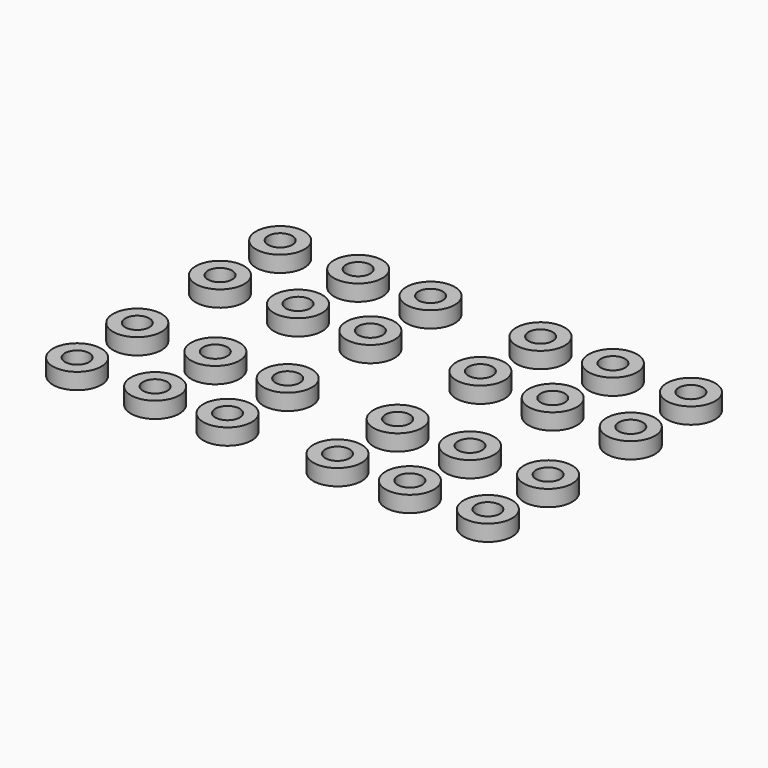
from build123d import *

# Parameters (mm, degrees)
F0_R     = 4.5
F0_R_2   = 2.25
F1_DEPTH = 3


with BuildPart() as f1:
    # F0 (on Top) → F1 (new body)
    with BuildSketch(Plane.XY):
        with Locations((-38.129084, 23.558017)):
            Circle(F0_R)
        with Locations((-38.129084, 23.558017)):
            Circle(F0_R_2, mode=Mode.SUBTRACT)
        with Locations((-23.645267, 23.558017)):
            Circle(F0_R)
        with Locations((-23.645267, 23.558017)):
            Circle(F0_R_2, mode=Mode.SUBTRACT)
        with Locations((-10.208474, 23.558017)):
            Circle(F0_R)
        with Locations((-10.208474, 23.558017)):
            Circle(F0_R_2, mode=Mode.SUBTRACT)
        with Locations((-10.208474, 9.59771)):
            Circle(F0_R)
        with Locations((-10.208474, 9.59771)):
            Circle(F0_R_2, mode=Mode.SUBTRACT)
        with Locations((-23.645267, 9.59771)):
            Circle(F0_R)
        with Locations((-23.645267, 9.59771)):
            Circle(F0_R_2, mode=Mode.SUBTRACT)
        with Locations((-38.129084, 9.59771)):
            Circle(F0_R)
        with Locations((-38.129084, 9.59771)):
            Circle(F0_R_2, mode=Mode.SUBTRACT)
        with Locations((-23.645267, -9.59771)):
            Circle(F0_R)
        with Locations((-23.645267, -9.59771)):
            Circle(F0_R_2, mode=Mode.SUBTRACT)
        with Locations((-38.129084, -9.59771)):
            Circle(F0_R)
        with Locations((-38.129084, -9.59771)):
            Circle(F0_R_2, mode=Mode.SUBTRACT)
        with Locations((-38.129084, -23.558017)):
            Circle(F0_R)
        with Locations((-38.129084, -23.558017)):
            Circle(F0_R_2, mode=Mode.SUBTRACT)
        with Locations((-23.645267, -23.558017)):
            Circle(F0_R)
        with Locations((-23.645267, -23.558017)):
            Circle(F0_R_2, mode=Mode.SUBTRACT)
        with Locations((-10.208474, -23.558017)):
            Circle(F0_R)
        with Locations((-10.208474, -23.558017)):
            Circle(F0_R_2, mode=Mode.SUBTRACT)
        with Locations((-10.208474, -9.59771)):
            Circle(F0_R)
        with Locations((-10.208474, -9.59771)):
            Circle(F0_R_2, mode=Mode.SUBTRACT)
        with Locations((10.208474, 23.558017)):
            Circle(F0_R)
        with Locations((10.208474, 23.558017)):
            Circle(F0_R_2, mode=Mode.SUBTRACT)
        with Locations((10.208474, 9.59771)):
            Circle(F0_R)
        with Locations((10.208474, 9.59771)):
            Circle(F0_R_2, mode=Mode.SUBTRACT)
        with Locations((10.208474, -9.59771)):
            Circle(F0_R)
        with Locations((10.208474, -9.59771)):
            Circle(F0_R_2, mode=Mode.SUBTRACT)
        with Locations((10.208474, -23.558017)):
            Circle(F0_R)
        with Locations((10.208474, -23.558017)):
            Circle(F0_R_2, mode=Mode.SUBTRACT)
        with Locations((23.645267, -9.59771)):
            Circle(F0_R)
        with Locations((23.645267, -9.59771)):
            Circle(F0_R_2, mode=Mode.SUBTRACT)
        with Locations((23.645267, -23.558017)):
            Circle(F0_R)
        with Locations((23.645267, -23.558017)):
            Circle(F0_R_2, mode=Mode.SUBTRACT)
        with Locations((38.129084, -9.59771)):
            Circle(F0_R)
        with Locations((38.129084, -9.59771)):
            Circle(F0_R_2, mode=Mode.SUBTRACT)
        with Locations((38.129084, -23.558017)):
            Circle(F0_R)
        with Locations((38.129084, -23.558017)):
            Circle(F0_R_2, mode=Mode.SUBTRACT)
        with Locations((38.129084, 9.59771)):
            Circle(F0_R)
        with Locations((38.129084, 9.59771)):
            Circle(F0_R_2, mode=Mode.SUBTRACT)
        with Locations((23.645267, 9.59771)):
            Circle(F0_R)
        with Locations((23.645267, 9.59771)):
            Circle(F0_R_2, mode=Mode.SUBTRACT)
        with Locations((23.645267, 23.558017)):
            Circle(F0_R)
        with Locations((23.645267, 23.558017)):
            Circle(F0_R_2, mode=Mode.SUBTRACT)
        with Locations((38.129084, 23.558017)):
            Circle(F0_R)
        with Locations((38.129084, 23.558017)):
            Circle(F0_R_2, mode=Mode.SUBTRACT)
    extrude(amount=F1_DEPTH)


solid = f1.part
